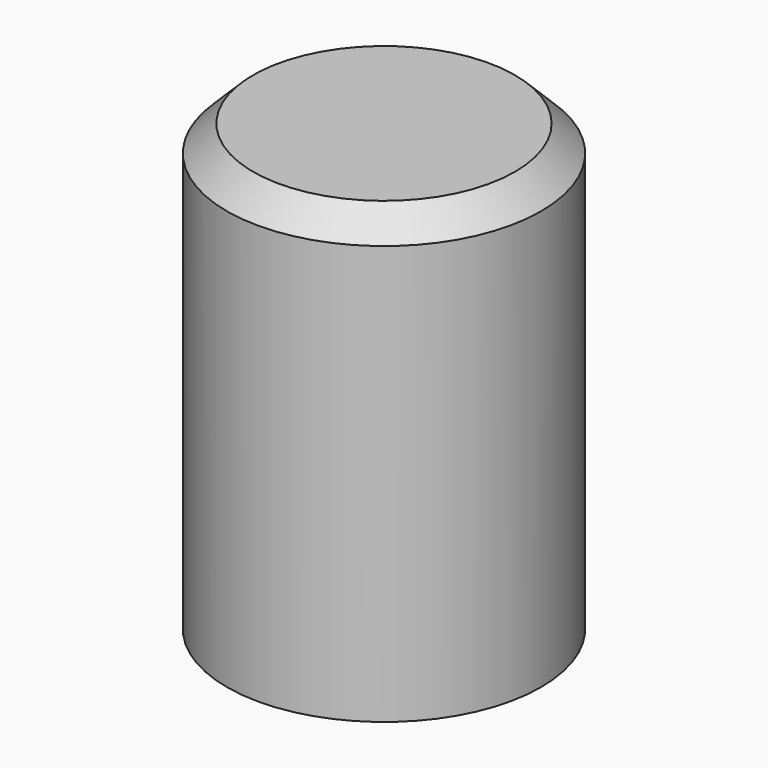
from build123d import *

# Parameters (mm, degrees)
SKETCH_R     = 3
PAD_DEPTH    = 8.5
CHAMFER_SIZE = 0.5


with BuildPart() as part:
    # Sketch → Pad (new body)
    with BuildSketch(Plane.XY):
        Circle(SKETCH_R)
    extrude(amount=PAD_DEPTH)

    # Chamfer
    chamfer_edges = [part.edges().sort_by_distance(p)[0] for p in [
        (-3, 0, 8.5),
    ]]
    chamfer(chamfer_edges, length=CHAMFER_SIZE)


solid = part.part
